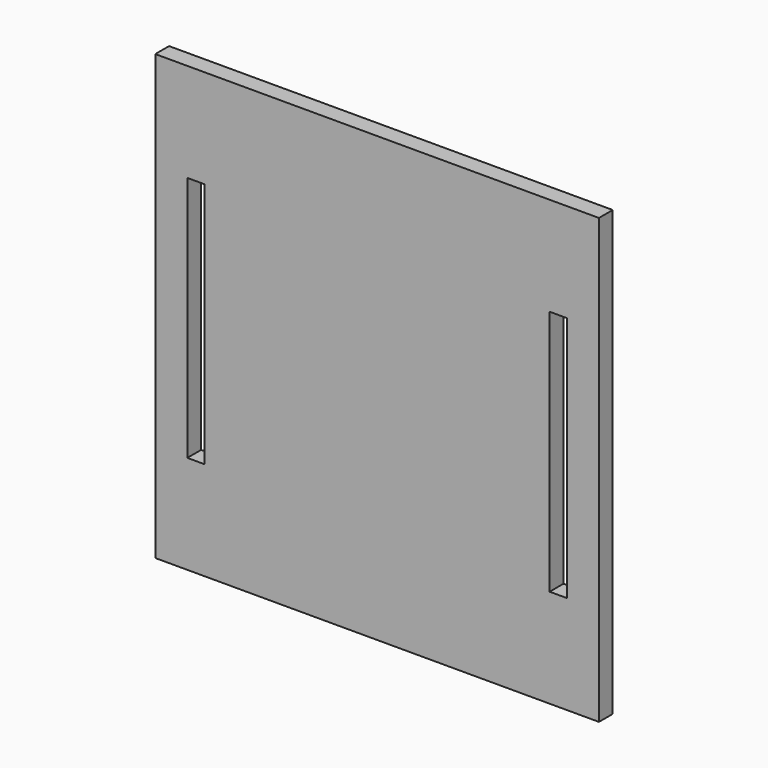
from build123d import *

# Parameters (mm, degrees)
F1_DEPTH = 3.5


with BuildPart() as f1:
    # F0 (on Front) → F1 (new body)
    with BuildSketch(Plane.XZ):
        Polygon((35, 0), (0, 0), (0, -45), (45, -45), (45, 0), (38.5, 0), (38.5, -25), (35, -25), align=None)
        Polygon((0, 45), (0, 0), (35, 0), (35, 25), (38.5, 25), (38.5, 0), (45, 0), (45, 45), align=None)
        Polygon((-35, 0), (0, 0), (0, 45), (-45, 45), (-45, 0), (-38.5, 0), (-38.5, 25), (-35, 25), align=None)
        Polygon((0, -45), (0, 0), (-35, 0), (-35, -25), (-38.5, -25), (-38.5, 0), (-45, 0), (-45, -45), align=None)
    extrude(amount=F1_DEPTH)


solid = f1.part
